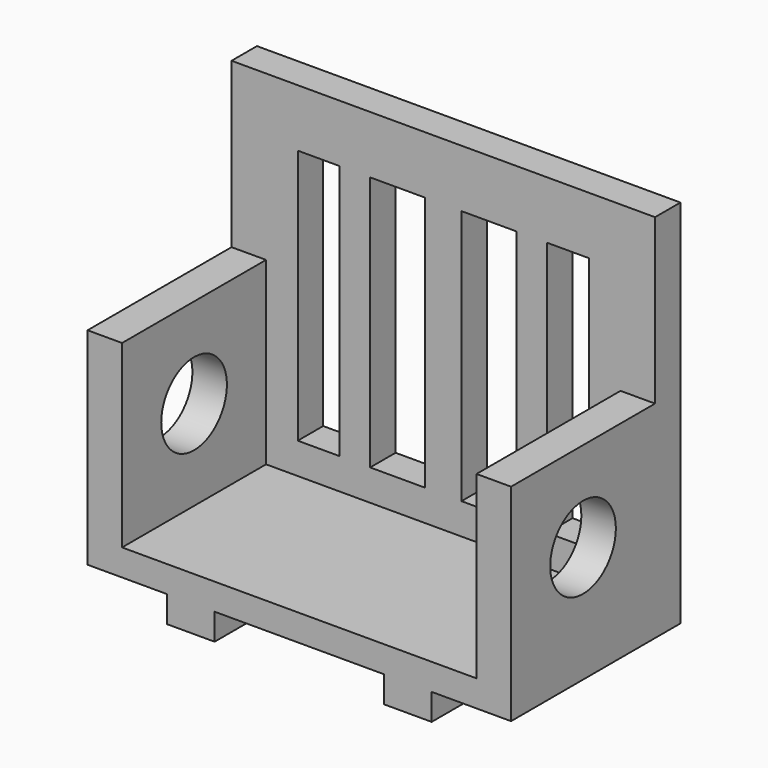
from build123d import *

# Parameters (mm, degrees)
F0_W      = 80
F0_H      = 60
F1_DEPTH  = 10
F2_W      = 15
F2_H      = 60
F2_W_2    = 32
F3_DEPTH  = 5
F4_W      = 80
F4_H      = 6
F5_DEPTH  = 65
F7_W      = 7.8638531268
F7_H      = 48.2417996228
F7_W_2    = 10.3811963927
F8_DEPTH  = 25
F9_W      = 6.5171729342
F9_H      = 34
F10_DEPTH = 34
F11_R     = 7.75
F13_DEPTH = 25
F14_W     = 20
F14_H     = 5
F15_DEPTH = 90
F16_W     = 20
F16_H     = 5
F17_DEPTH = 25
F18_W     = 20
F18_H     = 5
F19_DEPTH = 25
F12_R     = 7.75
F20_DEPTH = 25


with BuildPart() as f1:
    # F0 (on Top) → F1 (new body)
    with BuildSketch(Plane.XY):
        Rectangle(F0_W, F0_H)
    extrude(amount=F1_DEPTH)

    # F2 (on face) → F3 (cut)
    with BuildSketch(Plane(origin=(0, 0, 0), x_dir=(1, 0, 0), z_dir=(0, 0, -1))):
        with Locations((32.5, 0)):
            Rectangle(F2_W, F2_H)
        Rectangle(F2_W_2, F2_H)
        with Locations((-32.5, 0)):
            Rectangle(F2_W, F2_H)
    extrude(amount=-F3_DEPTH, mode=Mode.SUBTRACT)

    # F4 (on face) → F5 (join)
    with BuildSketch(Plane.XY.offset(10)):
        with Locations((0, 27)):
            Rectangle(F4_W, F4_H)
    extrude(amount=F5_DEPTH)

    # F7 (on face) → F8 (cut)
    with BuildSketch(Plane(origin=(0, 30, 0), x_dir=(-1, 0, 0), z_dir=(0, 1, 0))):
        with Locations((-23.5581696033, 40)):
            Rectangle(F7_W, F7_H)
        with Locations((-8.6212871829, 40)):
            Rectangle(F7_W_2, F7_H)
        with Locations((8.6212871829, 40)):
            Rectangle(F7_W_2, F7_H)
        with Locations((23.5581696033, 40)):
            Rectangle(F7_W, F7_H)
    extrude(amount=-F8_DEPTH, mode=Mode.SUBTRACT)

    # F9 (on face) → F10 (join)
    with BuildSketch(Plane.XY.offset(10)):
        with Locations((-36.7414135329, 7)):
            Rectangle(F9_W, F9_H)
        with Locations((36.7414135329, 7)):
            Rectangle(F9_W, F9_H)
    extrude(amount=F10_DEPTH)

    # F11 (on face) → F13 (cut)
    with BuildSketch(Plane(origin=(-40, 0, 0), x_dir=(0, -1, 0), z_dir=(-1, 0, 0))):
        with Locations((-7, 27)):
            Circle(F11_R)
    extrude(amount=-F13_DEPTH, mode=Mode.SUBTRACT)

    # F14 (on face) → F15 (cut)
    with BuildSketch(Plane.YZ.offset(40)):
        with Locations((-20, 7.5)):
            Rectangle(F14_W, F14_H)
    extrude(amount=-F15_DEPTH, mode=Mode.SUBTRACT)

    # F16 (on face) → F17 (cut)
    with BuildSketch(Plane.YZ.offset(25)):
        with Locations((-20, 2.5)):
            Rectangle(F16_W, F16_H)
    extrude(amount=-F17_DEPTH, mode=Mode.SUBTRACT)

    # F18 (on face) → F19 (cut)
    with BuildSketch(Plane(origin=(-25, 0, 0), x_dir=(0, -1, 0), z_dir=(-1, 0, 0))):
        with Locations((20, 2.5)):
            Rectangle(F18_W, F18_H)
    extrude(amount=-F19_DEPTH, mode=Mode.SUBTRACT)

    # F12 (on face) → F20 (cut)
    with BuildSketch(Plane.YZ.offset(40)):
        with Locations((7, 27)):
            Circle(F12_R)
    extrude(amount=-F20_DEPTH, mode=Mode.SUBTRACT)


solid = f1.part
